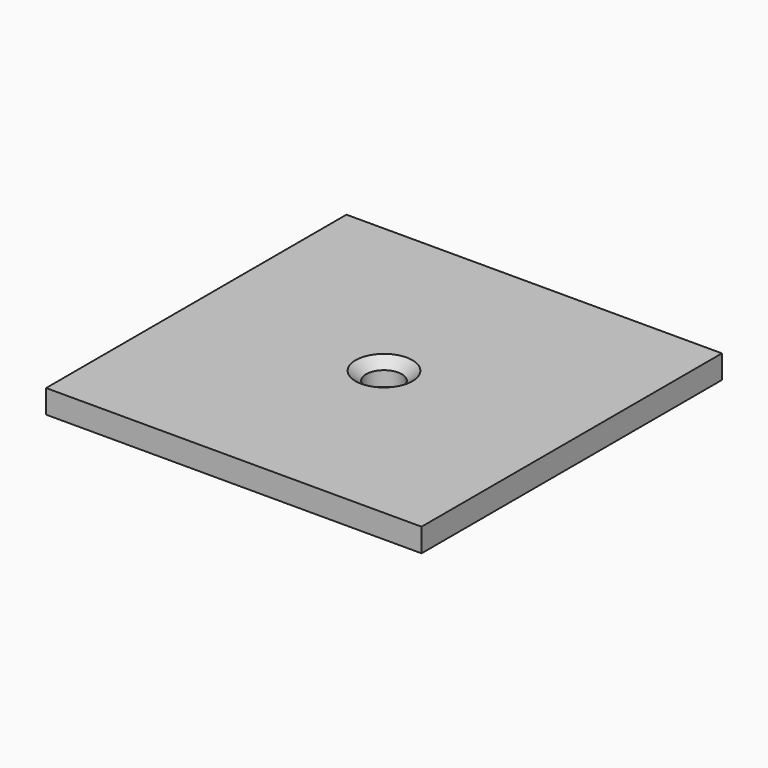
from build123d import *

# Parameters (mm, degrees)
F0_W           = 50.8
F0_H           = 50.8
F1_DEPTH       = 3.175
F2_D           = 4.8387
F2_CSINK_D     = 7.6962
F2_CSINK_ANGLE = 100


with BuildPart() as f1:
    # F0 (on Top) → F1 (new body)
    with BuildSketch(Plane.XY):
        Rectangle(F0_W, F0_H)
    extrude(amount=-F1_DEPTH)

    # F2 (through all)
    with Locations(Plane.XY):
        with Locations((0, 0)):
            CounterSinkHole(F2_D / 2, F2_CSINK_D / 2, counter_sink_angle=F2_CSINK_ANGLE)


solid = f1.part
